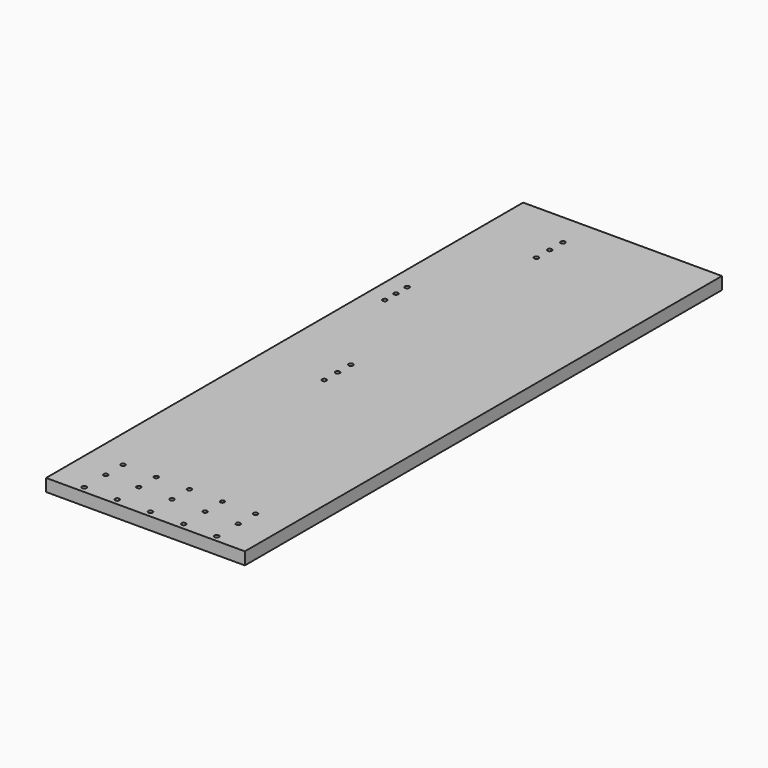
from build123d import *

# Parameters (mm, degrees)
F0_W     = 304.8
F0_H     = 914.4
F0_R     = 3.3782
F1_DEPTH = 19.05
F3_D     = 6.5278


with BuildPart() as f1:
    # F0 (on Top) → F1 (new body)
    with BuildSketch(Plane.XY):
        with Locations((-152.4, 457.2)):
            Rectangle(F0_W, F0_H)
        with Locations((-254, 9.525)):
            Circle(F0_R, mode=Mode.SUBTRACT)
        with Locations((-203.2, 9.525)):
            Circle(F0_R, mode=Mode.SUBTRACT)
        with Locations((-203.2, 406.4)):
            Circle(F0_R, mode=Mode.SUBTRACT)
        with Locations((-203.2, 431.8)):
            Circle(F0_R, mode=Mode.SUBTRACT)
        with Locations((-152.4, 9.525)):
            Circle(F0_R, mode=Mode.SUBTRACT)
        with Locations((-101.6, 9.525)):
            Circle(F0_R, mode=Mode.SUBTRACT)
        with Locations((-50.8, 9.525)):
            Circle(F0_R, mode=Mode.SUBTRACT)
        with Locations((-276.225, 613.56875)):
            Circle(F0_R, mode=Mode.SUBTRACT)
        with Locations((-276.225, 635)):
            Circle(F0_R, mode=Mode.SUBTRACT)
        with Locations((-276.225, 656.43125)):
            Circle(F0_R, mode=Mode.SUBTRACT)
        with Locations((-203.2, 457.2)):
            Circle(F0_R, mode=Mode.SUBTRACT)
        with Locations((-203.2, 812.8)):
            Circle(F0_R, mode=Mode.SUBTRACT)
        with Locations((-203.2, 838.2)):
            Circle(F0_R, mode=Mode.SUBTRACT)
        with Locations((-203.2, 863.6)):
            Circle(F0_R, mode=Mode.SUBTRACT)
    extrude(amount=F1_DEPTH)

    # F3 (through all)
    with Locations(Plane(origin=(0, 0, 0), x_dir=(1, 0, 0), z_dir=(0, 0, -1))):
        with Locations((-50.8, -84.0994), (-50.8, -50.8), (-101.6, -50.8), (-101.6, -84.0994), (-152.4, -84.0994), (-152.4, -50.8), (-203.2, -84.0994), (-203.2, -50.8), (-254, -84.0994), (-254, -50.8)):
            Hole(F3_D / 2)


solid = f1.part
